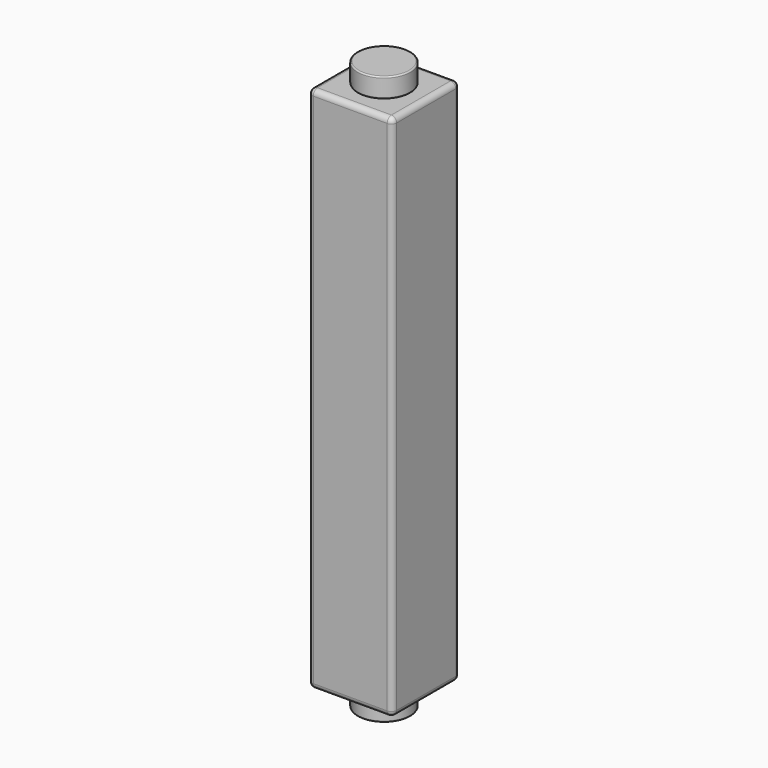
from build123d import *

# Parameters (mm, degrees)
F0_W     = 12.8
F0_H     = 12.8
F1_DEPTH = 80
F2_R     = 0.8
F4_START = 0.1
F3_R     = 4
F4_DEPTH = 3
F5_R     = 0.2
F7_START = 0.1
F6_R     = 4
F7_DEPTH = 3
F8_R     = 0.2


with BuildPart() as f1:
    # F0 (on Top) → F1 (new body)
    with BuildSketch(Plane.XY):
        Rectangle(F0_W, F0_H)
    extrude(amount=F1_DEPTH)

    # F2
    f2_edges = [f1.edges().sort_by_distance(p)[0] for p in [
        (6.4, -6.4, 40),
        (-6.4, -6.4, 40),
        (6.4, 6.4, 40),
        (-6.4, 6.4, 40),
        (0, -6.4, 0),
        (6.4, 0, 0),
        (0, 6.4, 0),
        (-6.4, 0, 0),
        (0, -6.4, 80),
        (6.4, 0, 80),
        (0, 6.4, 80),
        (-6.4, 0, 80),
    ]]
    fillet(f2_edges, radius=F2_R)


with BuildPart() as f4:
    # F3 (on face) → F4 (new body)
    with BuildSketch(Plane(origin=(0, 0, 0), x_dir=(1, 0, 0), z_dir=(0, 0, -1)).offset(F4_START)):
        Circle(F3_R)
    extrude(amount=F4_DEPTH)

    # F5
    f5_edges = [f4.edges().sort_by_distance(p)[0] for p in [
        (-4, 0, -3.1),
        (-4, 0, -0.1),
    ]]
    fillet(f5_edges, radius=F5_R)


with BuildPart() as f7:
    # F6 (on face) → F7 (new body)
    with BuildSketch(Plane.XY.offset(80).offset(F7_START)):
        Circle(F6_R)
    extrude(amount=F7_DEPTH)

    # F8
    f8_edges = [f7.edges().sort_by_distance(p)[0] for p in [
        (-4, 0, 83.1),
        (-4, 0, 80.1),
    ]]
    fillet(f8_edges, radius=F8_R)


solid = Compound([f1.part, f4.part, f7.part])
